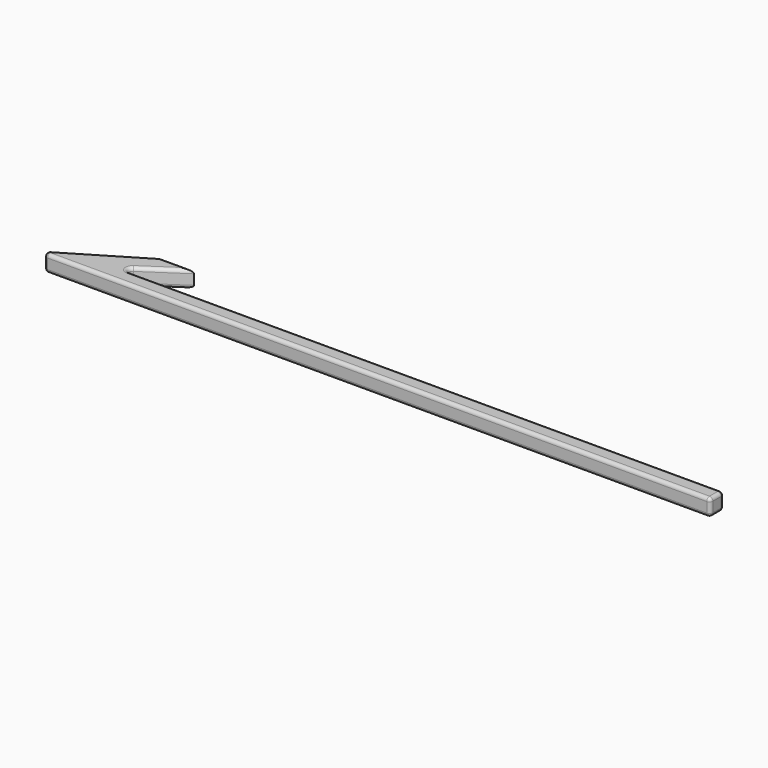
from build123d import *

# Parameters (mm, degrees)
EXTRUDE_DEPTH = 5
FILLET_R      = 1


with BuildPart() as part:
    # Sketch → Extrude (new body)
    with BuildSketch(Plane.XY):
        with BuildLine():
            Line((0, 0), (200, 0))
            Line((200, 5), (200, 0))
            Line((23.923846, 5), (200, 5))
            ThreePointArc((23.264837, 7.176558), (22.786778, 5.843768), (23.923846, 5))
            Line((35, 15), (23.264837, 7.176558))
            Line((25, 15), (35, 15))
            Line((0, 0), (25, 15))
        make_face()
    extrude(amount=EXTRUDE_DEPTH)

    # Fillet
    fillet_edges = [part.edges().sort_by_distance(p)[0] for p in [
        (0, 0, 2.5),
        (200, 0, 2.5),
        (100, 0, 0),
        (100, 0, 5),
        (200, 5, 2.5),
        (200, 2.5, 0),
        (200, 2.5, 5),
        (111.961923, 5, 0),
        (111.961923, 5, 5),
        (22.786778, 5.843768, 0),
        (22.786778, 5.843768, 5),
        (29.132419, 11.088279, 0),
        (29.132419, 11.088279, 5),
        (25, 15, 2.5),
        (30, 15, 0),
        (30, 15, 5),
        (12.5, 7.5, 0),
        (12.5, 7.5, 5),
    ]]
    fillet(fillet_edges, radius=FILLET_R)


solid = part.part
